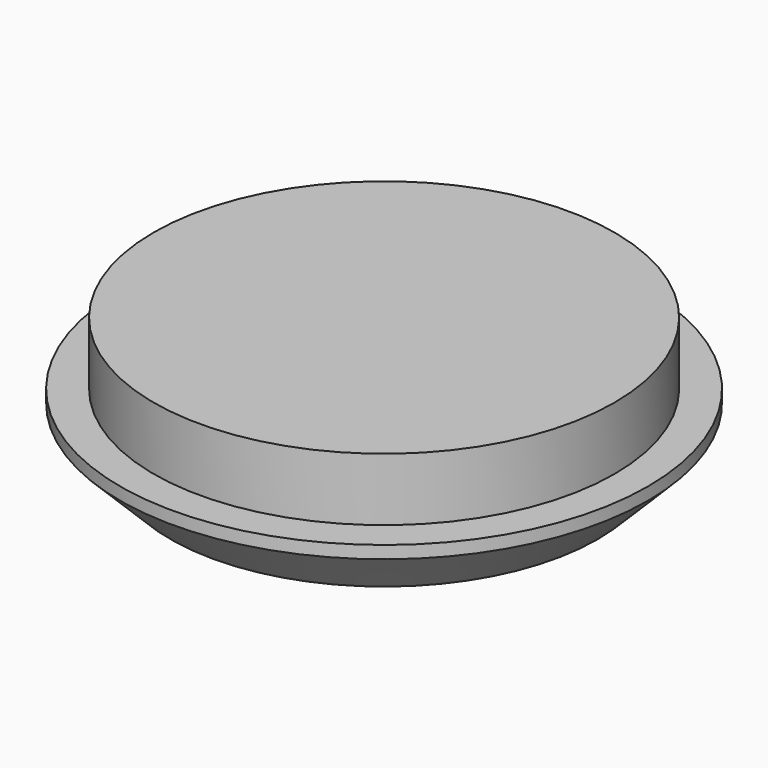
from build123d import *

# Parameters (mm, degrees)
F0_R     = 21
F1_DEPTH = 5
F2_R     = 18.332
F3_DEPTH = 5
F4_R     = 0.831881
F5_DEPTH = 2
F6_SIZE  = 4


with BuildPart() as f1:
    # F0 (on Top) → F1 (new body)
    with BuildSketch(Plane.XY):
        Circle(F0_R)
    extrude(amount=F1_DEPTH)

    # F2 (on face) → F3 (join)
    with BuildSketch(Plane.XY.offset(5)):
        Circle(F2_R)
    extrude(amount=F3_DEPTH)

    # F4 (on face) → F5 (cut)
    with BuildSketch(Plane(origin=(0, 0, 0), x_dir=(1, 0, 0), z_dir=(0, 0, -1))):
        with BuildLine():
            Line((-8.597011, 1.060302), (-5.727476, 1.060302))
            ThreePointArc((-5.727476, 1.060302), (-4.950709, 3.036583), (-3.504453, 4.59138))
            Line((-3.504453, 4.59138), (-8.52302, 4.59138))
            ThreePointArc((-8.52302, 4.59138), (-9.17742, 4.328519), (-9.468151, 3.686015))
            ThreePointArc((-9.468151, 3.686015), (-10.070724, 3.645277), (-10.475405, 3.196962))
            Line((-10.475405, 3.196962), (-10.475405, 2.261244))
            ThreePointArc((-10.475405, 2.261244), (-10.072278, 1.81049), (-9.47128, 1.743463))
            ThreePointArc((-9.47128, 1.743463), (-9.151775, 1.251347), (-8.597011, 1.060302))
        make_face()
        with BuildLine():
            ThreePointArc((-3.504453, 4.59138), (-4.950709, 3.036583), (-5.727476, 1.060302))
            ThreePointArc((-5.727476, 1.060302), (-5.826342, 0.084509), (-5.756453, -0.893787))
            ThreePointArc((-5.756453, -0.893787), (-5.359136, -2.261429), (-4.635161, -3.487874))
            ThreePointArc((-4.635161, -3.487874), (1.715573, -5.393429), (5.572241, 0))
            ThreePointArc((5.572241, 0), (5.5686, 0.2037), (5.557681, 0.407141))
            ThreePointArc((5.557681, 0.407141), (4.75085, 2.947629), (2.877083, 4.843428))
            ThreePointArc((2.877083, 4.843428), (-0.352303, 5.695164), (-3.504453, 4.59138))
        make_face()
        with BuildLine():
            Line((-0.40257, -1.372951), (-0.40257, -4.237055))
            ThreePointArc((-0.40257, -4.237055), (-2.31047, -3.76336), (-3.696814, -2.369617))
            Line((-3.696814, -2.369617), (-1.0845, -0.953302))
            Line((-1.0845, -0.953302), (-0.40257, -1.372951))
        make_face(mode=Mode.SUBTRACT)
        with BuildLine():
            Line((0.216412, -4.289511), (0.216412, -1.488355))
            Line((0.216412, -1.488355), (0.961289, -0.953302))
            Line((0.961289, -0.953302), (3.426726, -2.526986))
            ThreePointArc((3.426726, -2.526986), (2.055218, -3.833824), (0.216412, -4.289511))
        make_face(mode=Mode.SUBTRACT)
        with BuildLine():
            Line((-1.556605, 0.546942), (-1.556605, -0.313338))
            Line((-1.556605, -0.313338), (-4.043024, -1.782109))
            ThreePointArc((-4.043024, -1.782109), (-4.506304, 0.234199), (-3.843691, 2.194064))
            Line((-3.843691, 2.194064), (-1.556605, 0.546942))
        make_face(mode=Mode.SUBTRACT)
        with Locations((-0.127364, 0)):
            Circle(F4_R, mode=Mode.SUBTRACT)
        with BuildLine():
            Line((-0.439486, 1.44269), (-1.070051, 1.197883))
            Line((-1.070051, 1.197883), (-3.436526, 2.770586))
            ThreePointArc((-3.436526, 2.770586), (-2.151244, 3.990055), (-0.439486, 4.447148))
            Line((-0.439486, 4.447148), (-0.439486, 1.44269))
        make_face(mode=Mode.SUBTRACT)
        with BuildLine():
            Line((3.821978, -1.8935), (1.325343, -0.287891))
            Line((1.325343, -0.287891), (1.325343, 0.506092))
            Line((1.325343, 0.506092), (3.689648, 1.997015))
            ThreePointArc((3.689648, 1.997015), (4.334116, 0.071428), (3.821978, -1.8935))
        make_face(mode=Mode.SUBTRACT)
        with BuildLine():
            Line((3.368104, 2.591078), (0.929, 1.075215))
            Line((0.929, 1.075215), (0.192902, 1.461979))
            Line((0.192902, 1.461979), (0.192902, 4.479774))
            ThreePointArc((0.192902, 4.479774), (2.033345, 3.960494), (3.368104, 2.591078))
        make_face(mode=Mode.SUBTRACT)
        with BuildLine():
            ThreePointArc((-4.635161, -3.487874), (-5.359136, -2.261429), (-5.756453, -0.893787))
            ThreePointArc((-5.756453, -0.893787), (-7.938026, -2.56399), (-10.222816, -4.089958))
            Line((-10.222816, -4.089958), (-10.222816, -5.373343))
            ThreePointArc((-10.222816, -5.373343), (-7.297319, -4.820816), (-4.635161, -3.487874))
        make_face()
        with BuildLine():
            Line((14.553333, 4.843428), (2.877083, 4.843428))
            ThreePointArc((2.877083, 4.843428), (4.75085, 2.947629), (5.557681, 0.407141))
            ThreePointArc((5.557681, 0.407141), (7.075636, 0.742717), (8.332674, 1.657405))
            Line((8.332674, 1.657405), (12.917255, 1.879957))
            Line((12.917255, 1.879957), (12.9363, 1.48763))
            Line((12.9363, 1.48763), (13.997183, 1.539129))
            ThreePointArc((13.997183, 1.539129), (14.516183, 3.150728), (14.553333, 4.843428))
        make_face()
    extrude(amount=-F5_DEPTH, mode=Mode.SUBTRACT)

    # F6
    f6_edges = [f1.edges().sort_by_distance(p)[0] for p in [
        (-21, 0, 0),
    ]]
    chamfer(f6_edges, length=F6_SIZE)


solid = f1.part
